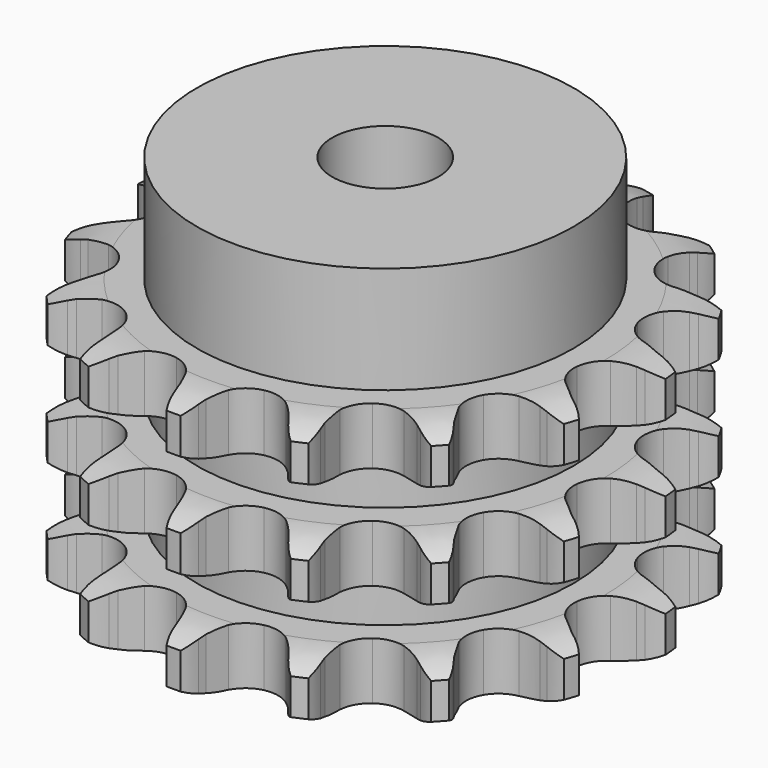
from build123d import *

# Parameters (mm, degrees)
PAD_DEPTH         = 49.8
SKETCH001_R       = 35.5
PAD001_DEPTH      = 70
SKETCH002_R       = 10
POCKET_DEPTH      = 0.001
POCKET_DEPTH_BACK = 70.001


with BuildPart() as part:
    # Sprocket → Pad (new body)
    with BuildSketch(Plane.XY):
        with BuildLine():
            ThreePointArc((-10.746351, 50.557607), (-8.790934, 48.761619), (-7.372206, 46.517418))
            Line((-7.372206, 46.517418), (-6.809475, 45.295827))
            ThreePointArc((-6.809475, 45.295827), (-5.8799, 43.569417), (-4.743136, 41.971804))
            ThreePointArc((-4.743136, 41.971804), (-2.627528, 40.303993), (0, 39.709445))
            ThreePointArc((0, 39.709445), (2.627528, 40.303993), (4.743136, 41.971804))
            ThreePointArc((4.743136, 41.971804), (5.8799, 43.569417), (6.809475, 45.295827))
            Line((6.809475, 45.295827), (7.372206, 46.517418))
            ThreePointArc((7.372206, 46.517418), (8.790934, 48.761619), (10.746351, 50.557607))
            ThreePointArc((10.746351, 50.557607), (11.802219, 48.121551), (12.185493, 45.494322))
            Line((12.185493, 45.494322), (12.202707, 44.14946))
            ThreePointArc((12.202707, 44.14946), (12.349723, 42.194214), (12.738401, 40.272358))
            ThreePointArc((12.738401, 40.272358), (13.992745, 37.888242), (16.151286, 36.276383))
            ThreePointArc((16.151286, 36.276383), (18.793477, 35.750818), (21.404541, 36.413944))
            Line((21.404541, 36.413944), (24.644238, 38.610134))
            ThreePointArc((24.644238, 38.610134), (25.140243, 39.064472), (25.655183, 39.49723))
            ThreePointArc((25.655183, 39.49723), (27.864055, 40.970361), (30.380912, 41.815738))
            ThreePointArc((30.380912, 41.815738), (30.354662, 39.160829), (29.63621, 36.604845))
            Line((29.63621, 36.604845), (29.104931, 35.36925))
            ThreePointArc((29.104931, 35.36925), (28.443966, 33.523248), (28.017352, 31.609455))
            ThreePointArc((28.017352, 31.609455), (28.193545, 28.921269), (29.509868, 26.570805))
            ThreePointArc((29.509868, 26.570805), (31.709863, 25.016002), (34.364906, 24.559782))
            Line((34.364906, 24.559782), (38.217788, 25.248398))
            ThreePointArc((38.217788, 25.248398), (38.855706, 25.461713), (39.502147, 25.647612))
            ThreePointArc((39.502147, 25.647612), (42.119228, 26.094955), (44.762337, 25.843547))
            ThreePointArc((44.762337, 25.843547), (43.658508, 23.428844), (41.962557, 21.386057))
            Line((41.962557, 21.386057), (40.974648, 20.473376))
            ThreePointArc((40.974648, 20.473376), (39.619989, 19.055807), (38.451848, 17.480991))
            ThreePointArc((38.451848, 17.480991), (37.519425, 14.953546), (37.765926, 12.270893))
            ThreePointArc((37.765926, 12.270893), (39.143326, 9.955692), (41.383267, 8.459011))
            Line((41.383267, 8.459011), (45.183135, 7.520984))
            ThreePointArc((45.183135, 7.520984), (45.852666, 7.456392), (46.51883, 7.363288))
            ThreePointArc((46.51883, 7.363288), (49.091604, 6.707494), (51.403947, 5.402773))
            ThreePointArc((51.403947, 5.402773), (49.413401, 3.645799), (47.033196, 2.469426))
            Line((47.033196, 2.469426), (45.759475, 2.037469))
            ThreePointArc((45.759475, 2.037469), (43.945356, 1.293445), (42.237671, 0.329904))
            ThreePointArc((42.237671, 0.329904), (40.357855, -1.599781), (39.491912, -4.150767))
            ThreePointArc((39.491912, -4.150767), (39.808553, -6.826048), (41.246086, -9.1044))
            Line((41.246086, -9.1044), (44.335908, -11.506875))
            ThreePointArc((44.335908, -11.506875), (44.921282, -11.838206), (45.491985, -12.194214))
            ThreePointArc((45.491985, -12.194214), (47.575595, -13.839754), (49.157348, -15.972191))
            ThreePointArc((49.157348, -15.972191), (46.624268, -16.767637), (43.971369, -16.874192))
            Line((43.971369, -16.874192), (42.632074, -16.750735))
            ThreePointArc((42.632074, -16.750735), (40.672172, -16.692566), (38.720216, -16.878226))
            ThreePointArc((38.720216, -16.878226), (36.218046, -17.876491), (34.389388, -19.854722))
            ThreePointArc((34.389388, -19.854722), (33.590518, -22.427502), (33.977081, -25.093578))
            Line((33.977081, -25.093578), (35.822599, -28.545092))
            ThreePointArc((35.822599, -28.545092), (36.222601, -29.085871), (36.599163, -29.643226))
            ThreePointArc((36.599163, -29.643226), (37.833334, -31.993982), (38.410997, -34.585417))
            ThreePointArc((38.410997, -34.585417), (35.773376, -34.281797), (33.306492, -33.300108))
            Line((33.306492, -33.300108), (32.1332, -32.642585))
            ThreePointArc((32.1332, -32.642585), (30.3664, -31.792281), (28.507685, -31.167958))
            ThreePointArc((28.507685, -31.167958), (25.815807, -31.062194), (23.340626, -32.125616))
            ThreePointArc((23.340626, -32.125616), (21.564378, -34.151038), (20.83313, -36.743848))
            Line((20.83313, -36.743848), (21.115238, -40.647603))
            ThreePointArc((21.115238, -40.647603), (21.260703, -41.304325), (21.378013, -41.966655))
            ThreePointArc((21.378013, -41.966655), (21.549346, -44.61616), (21.023035, -47.21851))
            ThreePointArc((21.023035, -47.21851), (18.736942, -45.868323), (16.88262, -43.968133))
            Line((16.88262, -43.968133), (16.078204, -42.890235))
            ThreePointArc((16.078204, -42.890235), (14.810001, -41.394821), (13.365915, -40.068466))
            ThreePointArc((13.365915, -40.068466), (10.949781, -38.876961), (8.256058, -38.841698))
            ThreePointArc((8.256058, -38.841698), (5.809562, -39.969548), (4.086942, -42.040773))
            Line((4.086942, -42.040773), (2.75686, -45.721774))
            ThreePointArc((2.75686, -45.721774), (2.622637, -46.380885), (2.46041, -47.033669))
            ThreePointArc((2.46041, -47.033669), (1.53928, -49.523799), (0, -51.687094))
            ThreePointArc((0, -51.687094), (-1.53928, -49.523799), (-2.46041, -47.033669))
            Line((-2.46041, -47.033669), (-2.75686, -45.721774))
            ThreePointArc((-2.75686, -45.721774), (-3.307182, -43.839821), (-4.086942, -42.040773))
            ThreePointArc((-4.086942, -42.040773), (-5.809562, -39.969548), (-8.256058, -38.841698))
            ThreePointArc((-8.256058, -38.841698), (-10.949781, -38.876961), (-13.365915, -40.068466))
            Line((-13.365915, -40.068466), (-16.078204, -42.890235))
            ThreePointArc((-16.078204, -42.890235), (-16.468908, -43.437769), (-16.88262, -43.968133))
            ThreePointArc((-16.88262, -43.968133), (-18.736942, -45.868323), (-21.023035, -47.21851))
            ThreePointArc((-21.023035, -47.21851), (-21.549346, -44.61616), (-21.378013, -41.966655))
            Line((-21.378013, -41.966655), (-21.115238, -40.647603))
            ThreePointArc((-21.115238, -40.647603), (-20.852522, -38.704517), (-20.83313, -36.743848))
            ThreePointArc((-20.83313, -36.743848), (-21.564378, -34.151038), (-23.340626, -32.125616))
            ThreePointArc((-23.340626, -32.125616), (-25.815807, -31.062194), (-28.507685, -31.167958))
            Line((-28.507685, -31.167958), (-32.1332, -32.642585))
            ThreePointArc((-32.1332, -32.642585), (-32.712828, -32.983869), (-33.306492, -33.300108))
            ThreePointArc((-33.306492, -33.300108), (-35.773376, -34.281797), (-38.410997, -34.585417))
            ThreePointArc((-38.410997, -34.585417), (-37.833334, -31.993982), (-36.599163, -29.643226))
            Line((-36.599163, -29.643226), (-35.822599, -28.545092))
            ThreePointArc((-35.822599, -28.545092), (-34.792273, -26.876851), (-33.977081, -25.093578))
            ThreePointArc((-33.977081, -25.093578), (-33.590518, -22.427502), (-34.389388, -19.854722))
            ThreePointArc((-34.389388, -19.854722), (-36.218046, -17.876491), (-38.720216, -16.878226))
            Line((-38.720216, -16.878226), (-42.632074, -16.750735))
            ThreePointArc((-42.632074, -16.750735), (-43.300404, -16.826757), (-43.971369, -16.874192))
            ThreePointArc((-43.971369, -16.874192), (-46.624268, -16.767637), (-49.157348, -15.972191))
            ThreePointArc((-49.157348, -15.972191), (-47.575595, -13.839754), (-45.491985, -12.194214))
            Line((-45.491985, -12.194214), (-44.335908, -11.506875))
            ThreePointArc((-44.335908, -11.506875), (-42.716123, -10.401933), (-41.246086, -9.1044))
            ThreePointArc((-41.246086, -9.1044), (-39.808553, -6.826048), (-39.491912, -4.150767))
            ThreePointArc((-39.491912, -4.150767), (-40.357855, -1.599781), (-42.237671, 0.329904))
            Line((-42.237671, 0.329904), (-45.759475, 2.037469))
            ThreePointArc((-45.759475, 2.037469), (-46.400946, 2.239853), (-47.033196, 2.469426))
            ThreePointArc((-47.033196, 2.469426), (-49.413401, 3.645799), (-51.403947, 5.402773))
            ThreePointArc((-51.403947, 5.402773), (-49.091604, 6.707494), (-46.51883, 7.363288))
            Line((-46.51883, 7.363288), (-45.183135, 7.520984))
            ThreePointArc((-45.183135, 7.520984), (-43.253967, 7.871574), (-41.383267, 8.459011))
            ThreePointArc((-41.383267, 8.459011), (-39.143326, 9.955692), (-37.765926, 12.270893))
            ThreePointArc((-37.765926, 12.270893), (-37.519425, 14.953546), (-38.451848, 17.480991))
            Line((-38.451848, 17.480991), (-40.974648, 20.473376))
            ThreePointArc((-40.974648, 20.473376), (-41.478343, 20.919173), (-41.962557, 21.386057))
            ThreePointArc((-41.962557, 21.386057), (-43.658508, 23.428844), (-44.762337, 25.843547))
            ThreePointArc((-44.762337, 25.843547), (-42.119228, 26.094955), (-39.502147, 25.647612))
            Line((-39.502147, 25.647612), (-38.217788, 25.248398))
            ThreePointArc((-38.217788, 25.248398), (-36.312808, 24.784014), (-34.364906, 24.559782))
            ThreePointArc((-34.364906, 24.559782), (-31.709863, 25.016002), (-29.509868, 26.570805))
            ThreePointArc((-29.509868, 26.570805), (-28.193545, 28.921269), (-28.017352, 31.609455))
            Line((-28.017352, 31.609455), (-29.104931, 35.36925))
            ThreePointArc((-29.104931, 35.36925), (-29.383758, 35.981377), (-29.63621, 36.604845))
            ThreePointArc((-29.63621, 36.604845), (-30.354662, 39.160829), (-30.380912, 41.815738))
            ThreePointArc((-30.380912, 41.815738), (-27.864055, 40.970361), (-25.655183, 39.49723))
            Line((-25.655183, 39.49723), (-24.644238, 38.610134))
            ThreePointArc((-24.644238, 38.610134), (-23.092834, 37.411073), (-21.404541, 36.413944))
            ThreePointArc((-21.404541, 36.413944), (-18.793477, 35.750818), (-16.151286, 36.276383))
            ThreePointArc((-16.151286, 36.276383), (-13.992745, 37.888242), (-12.738401, 40.272358))
            Line((-12.738401, 40.272358), (-12.202707, 44.14946))
            ThreePointArc((-12.202707, 44.14946), (-12.208454, 44.822075), (-12.185493, 45.494322))
            ThreePointArc((-12.185493, 45.494322), (-11.802219, 48.121551), (-10.746351, 50.557607))
        make_face()
    extrude(amount=PAD_DEPTH)

    # Sketch → Groove (revolve, cut)
    with BuildSketch(Plane.XZ):
        with BuildLine():
            ThreePointArc((41.414719, 0), (45.773618, 0.506758), (49.9, 2))
            Line((49.9, 2), (49.9, 8.8))
            ThreePointArc((49.9, 8.8), (45.773618, 10.293242), (41.414719, 10.8))
            Line((35.5, 10.8), (41.414719, 10.8))
            Line((35.5, 10.8), (35.5, 19.5))
            Line((35.5, 19.5), (41.414719, 19.5))
            ThreePointArc((41.414719, 19.5), (45.773618, 20.006758), (49.9, 21.5))
            Line((49.9, 28.3), (49.9, 21.5))
            ThreePointArc((49.9, 28.3), (45.773618, 29.793242), (41.414719, 30.3))
            Line((35.5, 30.3), (41.414719, 30.3))
            Line((35.5, 39), (35.5, 30.3))
            Line((41.414719, 39), (35.5, 39))
            ThreePointArc((41.414719, 39), (45.773618, 39.506758), (49.9, 41))
            Line((49.9, 41), (49.9, 47.8))
            ThreePointArc((49.9, 47.8), (45.773618, 49.293242), (41.414719, 49.8))
            Line((41.414719, 49.8), (59.9, 49.8))
            Line((59.9, 49.8), (59.9, 0))
            Line((41.414719, 0), (59.9, 0))
        make_face()
    revolve(axis=Axis((0, 0, 0), (0, 0, 1)), mode=Mode.SUBTRACT)

    # Sketch001 → Pad001 (join)
    with BuildSketch(Plane.XY):
        Circle(SKETCH001_R)
    extrude(amount=PAD001_DEPTH)

    # Sketch002 → Pocket (cut, two sides)
    with BuildSketch(Plane.XY) as pocket_sk:
        Circle(SKETCH002_R)
    extrude(amount=-POCKET_DEPTH, mode=Mode.SUBTRACT)
    extrude(pocket_sk.sketch, amount=POCKET_DEPTH_BACK, mode=Mode.SUBTRACT)


solid = part.part
